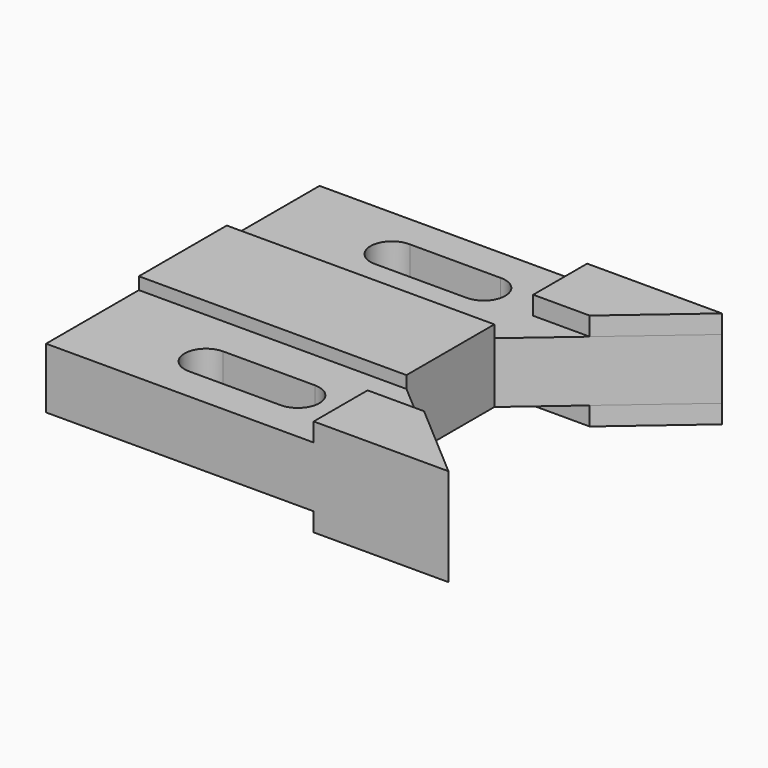
from build123d import *

# Parameters (mm, degrees)
F0_W     = 6.35
F0_H     = 30.1625
F1_DEPTH = 7.874
F2_W     = 69.596
F2_H     = 28.575
F3_DEPTH = 3.175
F5_DEPTH = 12.7


with BuildPart() as f1:
    # F0 (on Top) → F1 (new body, symmetric)
    with BuildSketch(Plane.XY):
        with Locations((3.175, 29.36875)):
            Rectangle(F0_W, F0_H)
        Polygon((6.35, 14.2875), (0, 14.2875), (0, -14.2875), (6.35, -14.2875), (69.596, -14.2875), (69.596, 14.2875), align=None)
        Polygon((104.648, 44.45), (6.35, 44.45), (6.35, 14.2875), (69.596, 14.2875), align=None)
        with BuildLine():
            ThreePointArc((30.226, 24.638), (24.638484, 30.299565), (30.373118, 35.812063))
            Line((30.373118, 35.812063), (53.954882, 35.812063))
            ThreePointArc((53.954882, 35.812063), (59.689516, 30.299565), (54.102, 24.638))
            Line((54.102, 24.638), (30.226, 24.638))
        make_face(mode=Mode.SUBTRACT)
        with Locations((3.175, -29.36875)):
            Rectangle(F0_W, F0_H)
        Polygon((69.596, -14.2875), (6.35, -14.2875), (6.35, -44.45), (104.648, -44.45), align=None)
        with BuildLine():
            ThreePointArc((30.373118, -35.812063), (24.638484, -30.299565), (30.226, -24.638))
            Line((30.226, -24.638), (54.102, -24.638))
            ThreePointArc((54.102, -24.638), (59.689516, -30.299565), (53.954882, -35.812063))
            Line((53.954882, -35.812063), (30.373118, -35.812063))
        make_face(mode=Mode.SUBTRACT)
    extrude(amount=F1_DEPTH, both=True)

    # F2 (on face) → F3 (join, symmetric)
    with BuildSketch(Plane.XY.offset(7.874)):
        with Locations((34.798, 0)):
            Rectangle(F2_W, F2_H)
    extrude(amount=F3_DEPTH, both=True)

    # F4 (on Top) → F5 (join, symmetric)
    with BuildSketch(Plane.XY):
        Polygon((104.648, 44.45), (69.596, 44.45), (69.596, 26.924), (84.280943, 26.924), align=None)
        Polygon((84.280943, -26.924), (69.596, -26.924), (69.596, -44.45), (104.648, -44.45), align=None)
    extrude(amount=F5_DEPTH, both=True)


solid = f1.part
